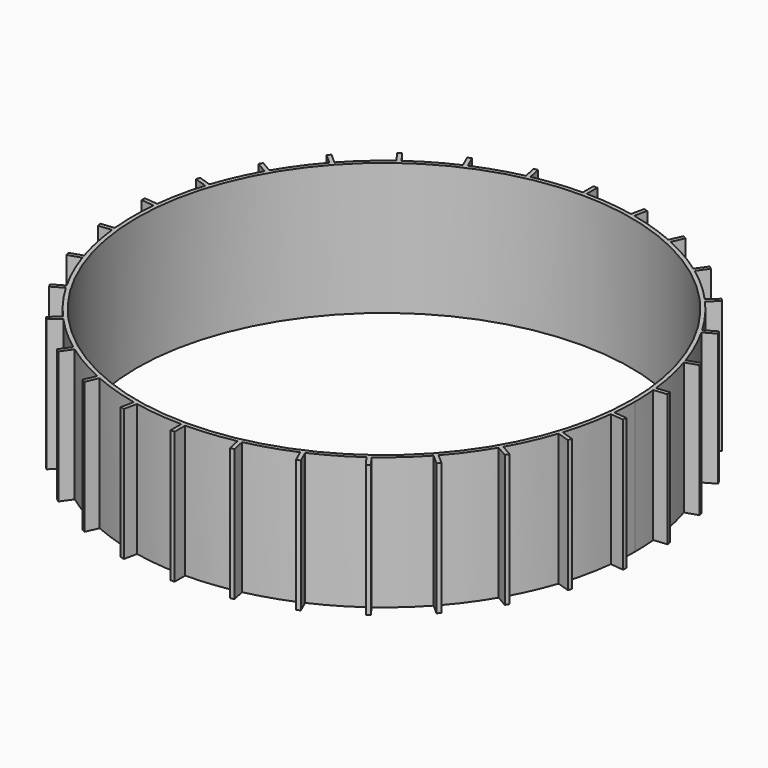
from build123d import *

# Parameters (mm, degrees)
F0_R     = 93.5
F1_DEPTH = 50


with BuildPart() as f1:
    # F0 (on Top) → F1 (new body)
    with BuildSketch(Plane.XY):
        with BuildLine():
            ThreePointArc((94.555032, -9.184003), (94.888693, -4.597388), (95, 0))
            ThreePointArc((95, 0), (94.888693, 4.597388), (94.555032, 9.184003))
            ThreePointArc((94.555032, 9.184003), (94.47958, 9.930204), (94.398239, 10.675786))
            ThreePointArc((94.398239, 10.675786), (92.924022, 19.751611), (90.579316, 28.642407))
            ThreePointArc((90.579316, 28.642407), (90.350369, 29.356614), (90.115791, 30.068992))
            ThreePointArc((90.115791, 30.068992), (86.786818, 38.639981), (82.644849, 46.849001))
            ThreePointArc((82.644849, 46.849001), (82.272413, 47.5), (81.894849, 48.148039))
            ThreePointArc((81.894849, 48.148039), (76.856614, 55.839599), (71.098406, 63.008068))
            ThreePointArc((71.098406, 63.008068), (70.598758, 63.567408), (70.09471, 64.122785))
            ThreePointArc((70.09471, 64.122785), (63.567408, 70.598758), (56.444622, 76.41338))
            ThreePointArc((56.444622, 76.41338), (55.839599, 76.856614), (55.231096, 77.295058))
            ThreePointArc((55.231096, 77.295058), (47.5, 82.272413), (39.323936, 86.479061))
            ThreePointArc((39.323936, 86.479061), (38.639981, 86.786818), (37.953618, 87.089166))
            ThreePointArc((37.953618, 87.089166), (29.356614, 90.350369), (20.484606, 92.765192))
            ThreePointArc((20.484606, 92.765192), (19.751611, 92.924022), (19.017384, 93.07706))
            ThreePointArc((19.017384, 93.07706), (9.930204, 94.47958), (0.75, 94.997039))
            Line((0.75, 94.997039), (-0.75, 94.997039))
            ThreePointArc((-0.75, 94.997039), (-9.930204, 94.47958), (-19.017384, 93.07706))
            ThreePointArc((-19.017384, 93.07706), (-19.751611, 92.924022), (-20.484606, 92.765192))
            ThreePointArc((-20.484606, 92.765192), (-29.356614, 90.350369), (-37.953618, 87.089166))
            ThreePointArc((-37.953618, 87.089166), (-38.639981, 86.786818), (-39.323936, 86.479061))
            ThreePointArc((-39.323936, 86.479061), (-47.5, 82.272413), (-55.231096, 77.295058))
            ThreePointArc((-55.231096, 77.295058), (-55.839599, 76.856614), (-56.444622, 76.41338))
            ThreePointArc((-56.444622, 76.41338), (-63.567408, 70.598758), (-70.09471, 64.122785))
            ThreePointArc((-70.09471, 64.122785), (-70.598758, 63.567408), (-71.098406, 63.008068))
            ThreePointArc((-71.098406, 63.008068), (-76.856614, 55.839599), (-81.894849, 48.148039))
            ThreePointArc((-81.894849, 48.148039), (-82.272413, 47.5), (-82.644849, 46.849001))
            ThreePointArc((-82.644849, 46.849001), (-86.786818, 38.639981), (-90.115791, 30.068992))
            ThreePointArc((-90.115791, 30.068992), (-90.350369, 29.356614), (-90.579316, 28.642407))
            ThreePointArc((-90.579316, 28.642407), (-92.924022, 19.751611), (-94.398239, 10.675786))
            ThreePointArc((-94.398239, 10.675786), (-94.47958, 9.930204), (-94.555032, 9.184003))
            ThreePointArc((-94.555032, 9.184003), (-95, 0), (-94.555032, -9.184003))
            ThreePointArc((-94.555032, -9.184003), (-94.47958, -9.930204), (-94.398239, -10.675786))
            ThreePointArc((-94.398239, -10.675786), (-92.924022, -19.751611), (-90.579316, -28.642407))
            ThreePointArc((-90.579316, -28.642407), (-90.350369, -29.356614), (-90.115791, -30.068992))
            ThreePointArc((-90.115791, -30.068992), (-86.786818, -38.639981), (-82.644849, -46.849001))
            ThreePointArc((-82.644849, -46.849001), (-82.272413, -47.5), (-81.894849, -48.148039))
            ThreePointArc((-81.894849, -48.148039), (-76.856614, -55.839599), (-71.098406, -63.008068))
            ThreePointArc((-71.098406, -63.008068), (-70.598758, -63.567408), (-70.09471, -64.122785))
            ThreePointArc((-70.09471, -64.122785), (-63.567408, -70.598758), (-56.444622, -76.41338))
            ThreePointArc((-56.444622, -76.41338), (-55.839599, -76.856614), (-55.231096, -77.295058))
            ThreePointArc((-55.231096, -77.295058), (-47.5, -82.272413), (-39.323936, -86.479061))
            ThreePointArc((-39.323936, -86.479061), (-38.639981, -86.786818), (-37.953618, -87.089166))
            ThreePointArc((-37.953618, -87.089166), (-29.356614, -90.350369), (-20.484606, -92.765192))
            ThreePointArc((-20.484606, -92.765192), (-19.751611, -92.924022), (-19.017384, -93.07706))
            ThreePointArc((-19.017384, -93.07706), (-9.930204, -94.47958), (-0.75, -94.997039))
            ThreePointArc((-0.75, -94.997039), (0, -95), (0.75, -94.997039))
            ThreePointArc((0.75, -94.997039), (9.930204, -94.47958), (19.017384, -93.07706))
            ThreePointArc((19.017384, -93.07706), (19.751611, -92.924022), (20.484606, -92.765192))
            ThreePointArc((20.484606, -92.765192), (29.356614, -90.350369), (37.953618, -87.089166))
            ThreePointArc((37.953618, -87.089166), (38.639981, -86.786818), (39.323936, -86.479061))
            ThreePointArc((39.323936, -86.479061), (47.5, -82.272413), (55.231096, -77.295058))
            ThreePointArc((55.231096, -77.295058), (55.839599, -76.856614), (56.444622, -76.41338))
            ThreePointArc((56.444622, -76.41338), (63.567408, -70.598758), (70.09471, -64.122785))
            ThreePointArc((70.09471, -64.122785), (70.598758, -63.567408), (71.098406, -63.008068))
            ThreePointArc((71.098406, -63.008068), (76.856614, -55.839599), (81.894849, -48.148039))
            ThreePointArc((81.894849, -48.148039), (82.272413, -47.5), (82.644849, -46.849001))
            ThreePointArc((82.644849, -46.849001), (86.786818, -38.639981), (90.115791, -30.068992))
            ThreePointArc((90.115791, -30.068992), (90.350369, -29.356614), (90.579316, -28.642407))
            ThreePointArc((90.579316, -28.642407), (92.924022, -19.751611), (94.398239, -10.675786))
            ThreePointArc((94.398239, -10.675786), (94.47958, -9.930204), (94.555032, -9.184003))
        make_face()
        Circle(F0_R, mode=Mode.SUBTRACT)
        with BuildLine():
            ThreePointArc((-0.75, 94.997039), (0, 95), (0.75, 94.997039))
            Line((0.75, 94.997039), (0.75, 99.997039))
            Line((0.75, 99.997039), (-0.75, 99.997039))
            Line((-0.75, 99.997039), (-0.75, 94.997039))
        make_face()
        with BuildLine():
            ThreePointArc((19.017384, 93.07706), (19.751611, 92.924022), (20.484606, 92.765192))
            Line((20.484606, 92.765192), (21.524164, 97.65593))
            Line((21.524164, 97.65593), (20.056943, 97.967798))
            Line((20.056943, 97.967798), (19.017384, 93.07706))
        make_face()
        with BuildLine():
            ThreePointArc((37.953618, 87.089166), (38.639981, 86.786818), (39.323936, 86.479061))
            Line((39.323936, 86.479061), (41.357619, 91.046789))
            Line((41.357619, 91.046789), (39.987301, 91.656894))
            Line((39.987301, 91.656894), (37.953618, 87.089166))
        make_face()
        with BuildLine():
            ThreePointArc((55.231096, 77.295058), (55.839599, 76.856614), (56.444622, 76.41338))
            Line((56.444622, 76.41338), (59.383548, 80.458465))
            Line((59.383548, 80.458465), (58.170022, 81.340143))
            Line((58.170022, 81.340143), (55.231096, 77.295058))
        make_face()
        with BuildLine():
            ThreePointArc((70.09471, 64.122785), (70.598758, 63.567408), (71.098406, 63.008068))
            Line((71.098406, 63.008068), (74.81413, 66.353721))
            Line((74.81413, 66.353721), (73.810434, 67.468438))
            Line((73.810434, 67.468438), (70.09471, 64.122785))
        make_face()
        with BuildLine():
            ThreePointArc((81.894849, 48.148039), (82.272413, 47.5), (82.644849, 46.849001))
            Line((82.644849, 46.849001), (86.974976, 49.349001))
            Line((86.974976, 49.349001), (86.224976, 50.648039))
            Line((86.224976, 50.648039), (81.894849, 48.148039))
        make_face()
        with BuildLine():
            ThreePointArc((-20.484606, 92.765192), (-19.751611, 92.924022), (-19.017384, 93.07706))
            Line((-19.017384, 93.07706), (-20.056943, 97.967798))
            Line((-20.056943, 97.967798), (-21.524164, 97.65593))
            Line((-21.524164, 97.65593), (-20.484606, 92.765192))
        make_face()
        with BuildLine():
            ThreePointArc((-39.323936, 86.479061), (-38.639981, 86.786818), (-37.953618, 87.089166))
            Line((-37.953618, 87.089166), (-39.987301, 91.656894))
            Line((-39.987301, 91.656894), (-41.357619, 91.046789))
            Line((-41.357619, 91.046789), (-39.323936, 86.479061))
        make_face()
        with BuildLine():
            ThreePointArc((-56.444622, 76.41338), (-55.839599, 76.856614), (-55.231096, 77.295058))
            Line((-55.231096, 77.295058), (-58.170022, 81.340143))
            Line((-58.170022, 81.340143), (-59.383548, 80.458465))
            Line((-59.383548, 80.458465), (-56.444622, 76.41338))
        make_face()
        with BuildLine():
            ThreePointArc((-71.098406, 63.008068), (-70.598758, 63.567408), (-70.09471, 64.122785))
            Line((-70.09471, 64.122785), (-73.810434, 67.468438))
            Line((-73.810434, 67.468438), (-74.81413, 66.353721))
            Line((-74.81413, 66.353721), (-71.098406, 63.008068))
        make_face()
        with BuildLine():
            ThreePointArc((90.115791, 30.068992), (90.350369, 29.356614), (90.579316, 28.642407))
            Line((90.579316, 28.642407), (95.334599, 30.187492))
            Line((95.334599, 30.187492), (94.871073, 31.614077))
            Line((94.871073, 31.614077), (90.115791, 30.068992))
        make_face()
        with BuildLine():
            ThreePointArc((94.398239, 10.675786), (94.47958, 9.930204), (94.555032, 9.184003))
            Line((94.555032, 9.184003), (99.527642, 9.706645))
            Line((99.527642, 9.706645), (99.370849, 11.198428))
            Line((99.370849, 11.198428), (94.398239, 10.675786))
        make_face()
        with BuildLine():
            Line((99.527642, -9.706645), (94.555032, -9.184003))
            ThreePointArc((94.555032, -9.184003), (94.47958, -9.930204), (94.398239, -10.675786))
            Line((94.398239, -10.675786), (99.370849, -11.198428))
            Line((99.370849, -11.198428), (99.527642, -9.706645))
        make_face()
        with BuildLine():
            Line((95.334599, -30.187492), (90.579316, -28.642407))
            ThreePointArc((90.579316, -28.642407), (90.350369, -29.356614), (90.115791, -30.068992))
            Line((90.115791, -30.068992), (94.871073, -31.614077))
            Line((94.871073, -31.614077), (95.334599, -30.187492))
        make_face()
        with BuildLine():
            ThreePointArc((-82.644849, 46.849001), (-82.272413, 47.5), (-81.894849, 48.148039))
            Line((-81.894849, 48.148039), (-86.224976, 50.648039))
            Line((-86.224976, 50.648039), (-86.974976, 49.349001))
            Line((-86.974976, 49.349001), (-82.644849, 46.849001))
        make_face()
        with BuildLine():
            ThreePointArc((-90.579316, 28.642407), (-90.350369, 29.356614), (-90.115791, 30.068992))
            Line((-90.115791, 30.068992), (-94.871073, 31.614077))
            Line((-94.871073, 31.614077), (-95.334599, 30.187492))
            Line((-95.334599, 30.187492), (-90.579316, 28.642407))
        make_face()
        with BuildLine():
            ThreePointArc((-94.555032, 9.184003), (-94.47958, 9.930204), (-94.398239, 10.675786))
            Line((-94.398239, 10.675786), (-99.370849, 11.198428))
            Line((-99.370849, 11.198428), (-99.527642, 9.706645))
            Line((-99.527642, 9.706645), (-94.555032, 9.184003))
        make_face()
        with BuildLine():
            Line((-99.370849, -11.198428), (-94.398239, -10.675786))
            ThreePointArc((-94.398239, -10.675786), (-94.47958, -9.930204), (-94.555032, -9.184003))
            Line((-94.555032, -9.184003), (-99.527642, -9.706645))
            Line((-99.527642, -9.706645), (-99.370849, -11.198428))
        make_face()
        with BuildLine():
            Line((-94.871073, -31.614077), (-90.115791, -30.068992))
            ThreePointArc((-90.115791, -30.068992), (-90.350369, -29.356614), (-90.579316, -28.642407))
            Line((-90.579316, -28.642407), (-95.334599, -30.187492))
            Line((-95.334599, -30.187492), (-94.871073, -31.614077))
        make_face()
        with BuildLine():
            Line((-86.224976, -50.648039), (-81.894849, -48.148039))
            ThreePointArc((-81.894849, -48.148039), (-82.272413, -47.5), (-82.644849, -46.849001))
            Line((-82.644849, -46.849001), (-86.974976, -49.349001))
            Line((-86.974976, -49.349001), (-86.224976, -50.648039))
        make_face()
        with BuildLine():
            Line((86.974976, -49.349001), (82.644849, -46.849001))
            ThreePointArc((82.644849, -46.849001), (82.272413, -47.5), (81.894849, -48.148039))
            Line((81.894849, -48.148039), (86.224976, -50.648039))
            Line((86.224976, -50.648039), (86.974976, -49.349001))
        make_face()
        with BuildLine():
            Line((-73.810434, -67.468438), (-70.09471, -64.122785))
            ThreePointArc((-70.09471, -64.122785), (-70.598758, -63.567408), (-71.098406, -63.008068))
            Line((-71.098406, -63.008068), (-74.81413, -66.353721))
            Line((-74.81413, -66.353721), (-73.810434, -67.468438))
        make_face()
        with BuildLine():
            Line((-58.170022, -81.340143), (-55.231096, -77.295058))
            ThreePointArc((-55.231096, -77.295058), (-55.839599, -76.856614), (-56.444622, -76.41338))
            Line((-56.444622, -76.41338), (-59.383548, -80.458465))
            Line((-59.383548, -80.458465), (-58.170022, -81.340143))
        make_face()
        with BuildLine():
            Line((-39.987301, -91.656894), (-37.953618, -87.089166))
            ThreePointArc((-37.953618, -87.089166), (-38.639981, -86.786818), (-39.323936, -86.479061))
            Line((-39.323936, -86.479061), (-41.357619, -91.046789))
            Line((-41.357619, -91.046789), (-39.987301, -91.656894))
        make_face()
        with BuildLine():
            Line((-20.056943, -97.967798), (-19.017384, -93.07706))
            ThreePointArc((-19.017384, -93.07706), (-19.751611, -92.924022), (-20.484606, -92.765192))
            Line((-20.484606, -92.765192), (-21.524164, -97.65593))
            Line((-21.524164, -97.65593), (-20.056943, -97.967798))
        make_face()
        with BuildLine():
            Line((0.75, -99.997039), (0.75, -94.997039))
            ThreePointArc((0.75, -94.997039), (0, -95), (-0.75, -94.997039))
            Line((-0.75, -94.997039), (-0.75, -99.997039))
            Line((-0.75, -99.997039), (0.75, -99.997039))
        make_face()
        with BuildLine():
            Line((21.524164, -97.65593), (20.484606, -92.765192))
            ThreePointArc((20.484606, -92.765192), (19.751611, -92.924022), (19.017384, -93.07706))
            Line((19.017384, -93.07706), (20.056943, -97.967798))
            Line((20.056943, -97.967798), (21.524164, -97.65593))
        make_face()
        with BuildLine():
            Line((41.357619, -91.046789), (39.323936, -86.479061))
            ThreePointArc((39.323936, -86.479061), (38.639981, -86.786818), (37.953618, -87.089166))
            Line((37.953618, -87.089166), (39.987301, -91.656894))
            Line((39.987301, -91.656894), (41.357619, -91.046789))
        make_face()
        with BuildLine():
            Line((59.383548, -80.458465), (56.444622, -76.41338))
            ThreePointArc((56.444622, -76.41338), (55.839599, -76.856614), (55.231096, -77.295058))
            Line((55.231096, -77.295058), (58.170022, -81.340143))
            Line((58.170022, -81.340143), (59.383548, -80.458465))
        make_face()
        with BuildLine():
            Line((74.81413, -66.353721), (71.098406, -63.008068))
            ThreePointArc((71.098406, -63.008068), (70.598758, -63.567408), (70.09471, -64.122785))
            Line((70.09471, -64.122785), (73.810434, -67.468438))
            Line((73.810434, -67.468438), (74.81413, -66.353721))
        make_face()
    extrude(amount=F1_DEPTH)


solid = f1.part
